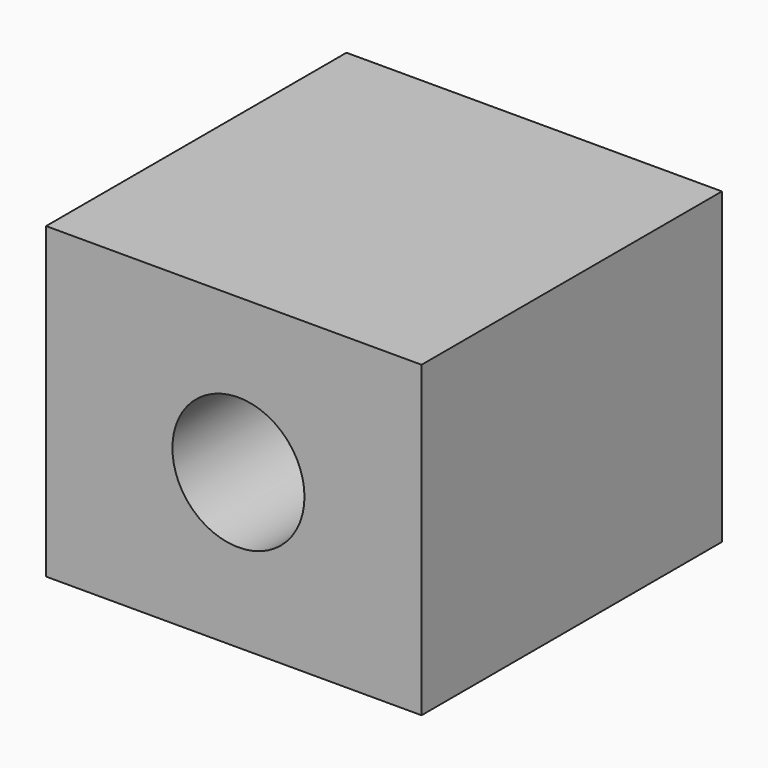
from build123d import *

# Parameters (mm, degrees)
F0_W     = 30.416689
F0_H     = 30.416687
F1_DEPTH = 12.5
F2_R     = 5.35
F3_DEPTH = 50


with BuildPart() as f1:
    # F0 (on Top) → F1 (new body, symmetric)
    with BuildSketch(Plane.XY):
        with Locations((-0.373975, -0.623292)):
            Rectangle(F0_W, F0_H)
    extrude(amount=F1_DEPTH, both=True)

    # F2 (on Front) → F3 (cut, symmetric)
    with BuildSketch(Plane.XZ):
        Circle(F2_R)
    extrude(amount=F3_DEPTH, both=True, mode=Mode.SUBTRACT)


solid = f1.part
